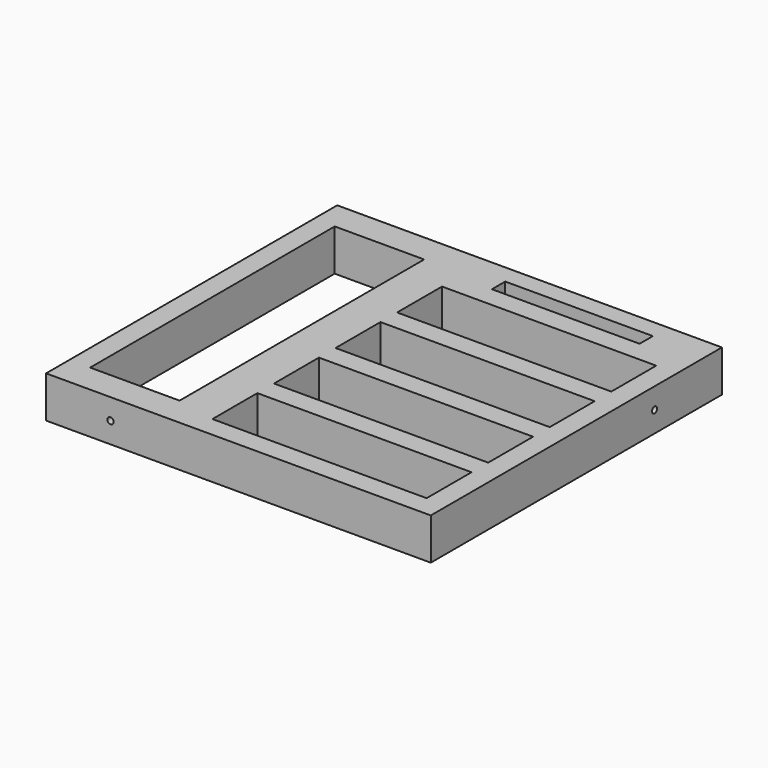
from build123d import *

# Parameters (mm, degrees)
CYLINDER002_R         = 3.5
CYLINDER002_DEPTH     = 10
CYLINDER001_R         = 1.5
CYLINDER001_DEPTH     = 10
FUSION002_ROLL_ANGLE  = -90
FUSION001_PITCH_ANGLE = -90
BOX001_W              = 71
BOX001_H              = 8
BOX001_DEPTH          = 100
BOX_W                 = 103
BOX_H                 = 27
BOX_DEPTH             = 146
ARRAY_Y_COUNT         = 4
ARRAY_Y_PITCH         = 37
BOX005_W              = 43
BOX005_H              = 147
BOX005_DEPTH          = 20
BOX002_W              = 185
BOX002_H              = 175
BOX002_DEPTH          = 20


with BuildPart() as cylinder002:
    # Cylinder002 → Cylinder002 (new body)
    with BuildSketch(Plane(origin=(15, -5, 8), x_dir=(1, 0, 0), z_dir=(0, 0, 1))):
        Circle(CYLINDER002_R)
    extrude(amount=CYLINDER002_DEPTH)


with BuildPart() as cone:
    # Cone → Cone (revolve)
    with BuildSketch(Plane(origin=(15, -5, 6), x_dir=(1, 0, 0), z_dir=(0, -1, 0))):
        Polygon((0, 0), (1.5, 0), (3.5, 2), (0, 2), align=None)
    revolve(axis=Axis((15, -5, 6), (0, 0, 1)))


with BuildPart() as cylinder001:
    # Cylinder001 → Cylinder001 (new body)
    with BuildSketch(Plane(origin=(15, -5, 0), x_dir=(1, 0, 0), z_dir=(0, 0, 1))):
        Circle(CYLINDER001_R)
    extrude(amount=CYLINDER001_DEPTH)


with BuildPart() as fusion002:
    # Fusion002 base: copy of Cylinder001
    add(cylinder001.part)

    # Fusion002: union Cylinder002, Cone
    add(cylinder002.part)
    add(cone.part)


with BuildPart() as fusion002_1:
    # Fusion002 roll: moved
    add(fusion002.part.rotate(Axis((0, 0, 0), (1, 0, 0)), FUSION002_ROLL_ANGLE))


with BuildPart() as fusion002_2:
    # Fusion002 placement: moved
    add(fusion002_1.part.moved(Location((-56, -10, 5))))


with BuildPart() as fusion001:
    # Fusion001 base: copy of Cylinder001
    add(cylinder001.part)

    # Fusion001: union Cylinder002, Cone
    add(cylinder002.part)
    add(cone.part)


with BuildPart() as fusion001_1:
    # Fusion001 pitch: moved
    add(fusion001.part.rotate(Axis((0, 0, 0), (0, 1, 0)), FUSION001_PITCH_ANGLE))


with BuildPart() as fusion001_2:
    # Fusion001 placement: moved
    add(fusion001_1.part.moved(Location((113, 129.5, -5))))


with BuildPart() as cube001:
    # Box001 → Box001 (new body)
    with BuildSketch(Plane(origin=(16, 148, 0), x_dir=(1, 0, 0), z_dir=(0, 0, 1))):
        with Locations((35.5, 4)):
            Rectangle(BOX001_W, BOX001_H)
    extrude(amount=BOX001_DEPTH)


with BuildPart() as array:
    # Box → Box (new body)
    with BuildSketch(Plane.XY):
        with Locations((51.5, 13.5)):
            Rectangle(BOX_W, BOX_H)
    extrude(amount=BOX_DEPTH)

    # Array Y: Array ×4


with BuildPart() as array_1:
    add(array.part)
    with Locations(*[(0, i * ARRAY_Y_PITCH, 0) for i in range(1, ARRAY_Y_COUNT)]):
        add(array.part)


with BuildPart() as fusion:
    # Box005 → Box005 (new body)
    with BuildSketch(Plane(origin=(-62, 4, 0), x_dir=(1, 0, 0), z_dir=(0, 0, 1))):
        with Locations((21.5, 73.5)):
            Rectangle(BOX005_W, BOX005_H)
    extrude(amount=BOX005_DEPTH)

    # Fusion: union Fusion002, Fusion001, Cube001, Array
    add(fusion002_2.part)
    add(fusion001_2.part)
    add(cube001.part)
    add(array_1.part)


with BuildPart() as cut:
    # Box002 → Box002 (new body)
    with BuildSketch(Plane(origin=(-72, -10, 0), x_dir=(1, 0, 0), z_dir=(0, 0, 1))):
        with Locations((92.5, 87.5)):
            Rectangle(BOX002_W, BOX002_H)
    extrude(amount=BOX002_DEPTH)

    # Cut: cut Fusion
    add(fusion.part, mode=Mode.SUBTRACT)


solid = cut.part
